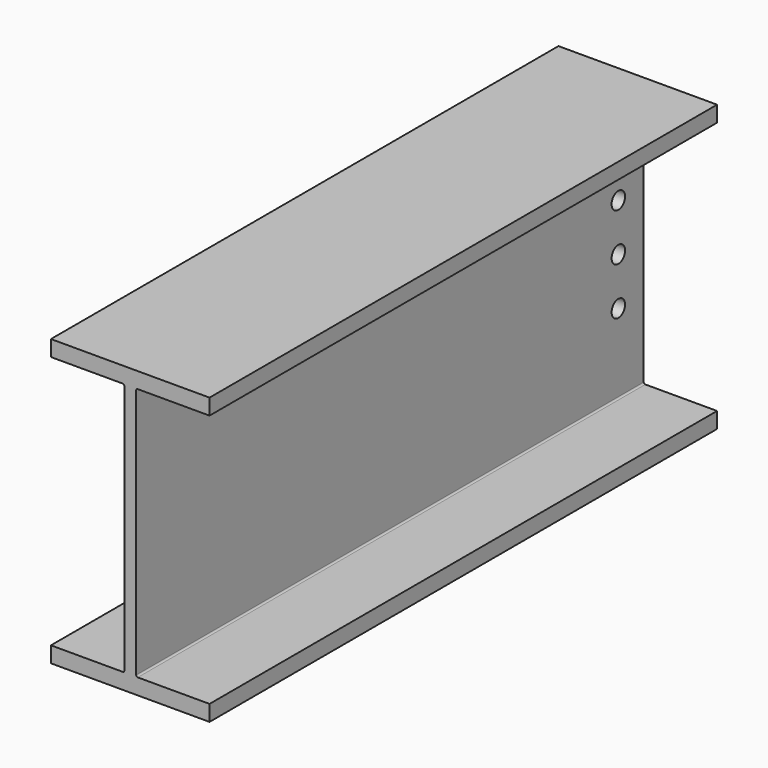
from build123d import *

# Parameters (mm, degrees)
F1_DEPTH = 508
F3_D     = 26.9875


with BuildPart() as f1:
    # F0 (on Front) → F1 (new body, symmetric)
    with BuildSketch(Plane.XZ):
        with BuildLine():
            Line((127, -228.6), (127, -203.2))
            Line((127, -203.2), (12.065, -203.2))
            ThreePointArc((12.065, -203.2), (10.268949, -202.456051), (9.525, -200.66))
            Line((9.525, -200.66), (9.525, 200.66))
            ThreePointArc((9.525, 200.66), (10.268949, 202.456051), (12.065, 203.2))
            Line((12.065, 203.2), (127, 203.2))
            Line((127, 203.2), (127, 228.6))
            Line((127, 228.6), (-127, 228.6))
            Line((-127, 228.6), (-127, 203.2))
            Line((-127, 203.2), (-12.065, 203.2))
            ThreePointArc((-12.065, 203.2), (-10.268949, 202.456051), (-9.525, 200.66))
            Line((-9.525, 200.66), (-9.525, -200.66))
            ThreePointArc((-9.525, -200.66), (-10.268949, -202.456051), (-12.065, -203.2))
            Line((-12.065, -203.2), (-127, -203.2))
            Line((-127, -203.2), (-127, -228.6))
            Line((-127, -228.6), (127, -228.6))
        make_face()
    extrude(amount=F1_DEPTH, both=True)

    # F3 (through all)
    with Locations(Plane.YZ.offset(9.525)):
        with Locations((457.2, 152.4), (457.2, 76.2), (457.2, 0), (457.2, -76.2)):
            Hole(F3_D / 2)


solid = f1.part
